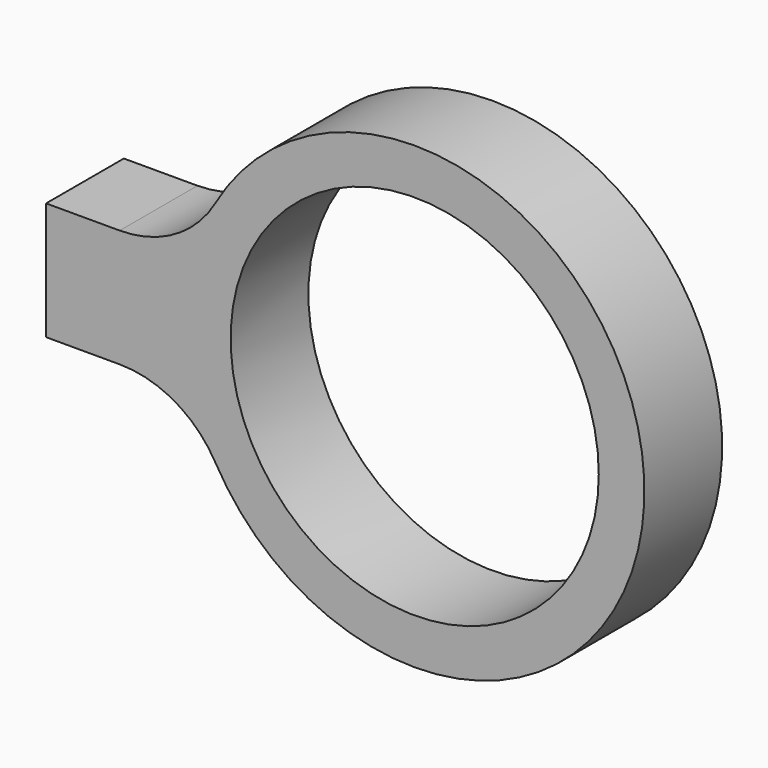
from build123d import *

# Parameters (mm, degrees)
F0_R     = 15.875
F1_DEPTH = 4.191
F3_D     = 3.4544
F3_DEPTH = 14.2875
F3_TIP   = 1.0378064612


with BuildPart() as f1:
    # F0 (on Front) → F1 (new body, symmetric)
    with BuildSketch(Plane.XZ):
        with BuildLine():
            ThreePointArc((-17.1823825283, -9.8631168831), (19.812, 0), (-17.1823825283, 9.8631168831))
            ThreePointArc((-17.1823825283, 9.8631168831), (-20.6703460499, 6.362061759), (-25.4431433593, 5.08))
            Line((-25.4431433593, 5.08), (-31.7931433593, 5.08))
            Line((-31.7931433593, 5.08), (-31.7931433593, -5.08))
            Line((-31.7931433593, -5.08), (-25.4431433593, -5.08))
            ThreePointArc((-25.4431433593, -5.08), (-20.6703460499, -6.362061759), (-17.1823825283, -9.8631168831))
        make_face()
        Circle(F0_R, mode=Mode.SUBTRACT)
    extrude(amount=F1_DEPTH, both=True)

    # F3
    with Locations(Plane(origin=(-31.7931433593, 0, 0), x_dir=(0, -1, 0), z_dir=(-1, 0, 0))):
        with Locations((0, 0)):
            Hole(F3_D / 2, depth=F3_DEPTH)
            with Locations((0, 0, -(F3_DEPTH + F3_TIP / 2))):  # 118° drill point
                Cone(0, F3_D / 2, F3_TIP, mode=Mode.SUBTRACT)


solid = f1.part
